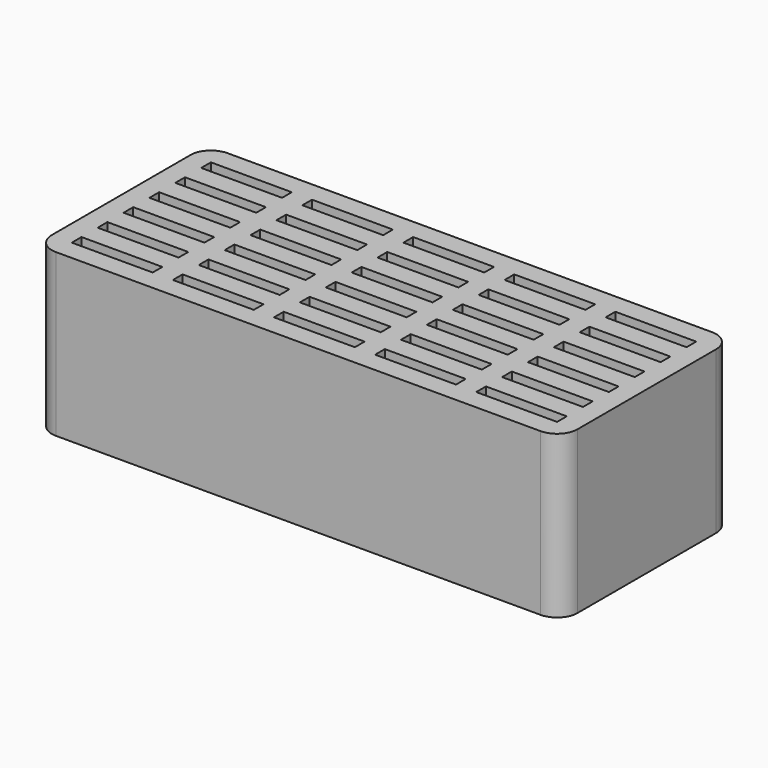
from build123d import *

# Parameters (mm, degrees)
F1_DEPTH = 40
F2_W     = 20
F2_H     = 3
F3_DEPTH = 25.4


with BuildPart() as f1:
    # F0 (on Top) → F1 (new body)
    with BuildSketch(Plane.XY):
        with BuildLine():
            ThreePointArc((0, 5.08), (1.487898, 1.487898), (5.08, 0))
            Line((5.08, 0), (124.92, 0))
            ThreePointArc((124.92, 0), (128.512102, 1.487898), (130, 5.08))
            Line((130, 5.08), (130, 47.92))
            ThreePointArc((130, 47.92), (128.512102, 51.512102), (124.92, 53))
            Line((124.92, 53), (5.08, 53))
            ThreePointArc((5.08, 53), (1.487898, 51.512102), (0, 47.92))
            Line((0, 47.92), (0, 5.08))
        make_face()
    extrude(amount=F1_DEPTH)

    # F2 (on face) → F3 (cut)
    with BuildSketch(Plane.XY.offset(40)):
        with Locations((15, 46.5)):
            Rectangle(F2_W, F2_H)
        with Locations((15, 38.5)):
            Rectangle(F2_W, F2_H)
        with Locations((15, 30.5)):
            Rectangle(F2_W, F2_H)
        with Locations((15, 22.5)):
            Rectangle(F2_W, F2_H)
        with Locations((15, 14.5)):
            Rectangle(F2_W, F2_H)
        with Locations((15, 6.5)):
            Rectangle(F2_W, F2_H)
        with Locations((40, 46.5)):
            Rectangle(F2_W, F2_H)
        with Locations((40, 38.5)):
            Rectangle(F2_W, F2_H)
        with Locations((40, 30.5)):
            Rectangle(F2_W, F2_H)
        with Locations((40, 22.5)):
            Rectangle(F2_W, F2_H)
        with Locations((40, 14.5)):
            Rectangle(F2_W, F2_H)
        with Locations((40, 6.5)):
            Rectangle(F2_W, F2_H)
        with Locations((65, 46.5)):
            Rectangle(F2_W, F2_H)
        with Locations((65, 38.5)):
            Rectangle(F2_W, F2_H)
        with Locations((65, 30.5)):
            Rectangle(F2_W, F2_H)
        with Locations((65, 22.5)):
            Rectangle(F2_W, F2_H)
        with Locations((65, 14.5)):
            Rectangle(F2_W, F2_H)
        with Locations((65, 6.5)):
            Rectangle(F2_W, F2_H)
        with Locations((90, 46.5)):
            Rectangle(F2_W, F2_H)
        with Locations((90, 38.5)):
            Rectangle(F2_W, F2_H)
        with Locations((90, 30.5)):
            Rectangle(F2_W, F2_H)
        with Locations((90, 22.5)):
            Rectangle(F2_W, F2_H)
        with Locations((90, 14.5)):
            Rectangle(F2_W, F2_H)
        with Locations((90, 6.5)):
            Rectangle(F2_W, F2_H)
        with Locations((115, 46.5)):
            Rectangle(F2_W, F2_H)
        with Locations((115, 38.5)):
            Rectangle(F2_W, F2_H)
        with Locations((115, 30.5)):
            Rectangle(F2_W, F2_H)
        with Locations((115, 22.5)):
            Rectangle(F2_W, F2_H)
        with Locations((115, 14.5)):
            Rectangle(F2_W, F2_H)
        with Locations((115, 6.5)):
            Rectangle(F2_W, F2_H)
    extrude(amount=-F3_DEPTH, mode=Mode.SUBTRACT)


solid = f1.part
